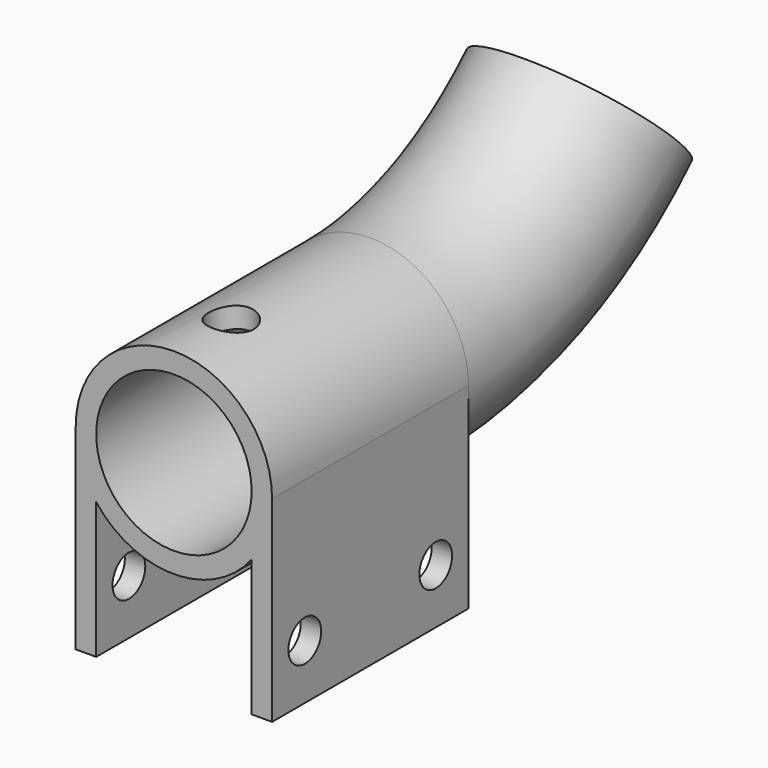
from build123d import *

# Parameters (mm, degrees)
F1_DEPTH = 30
F4_R     = 2.5
F5_DEPTH = 50
F6_R     = 2.75
F7_DEPTH = 25


with BuildPart() as f1:
    # F0 (on Front) → F1 (new body)
    with BuildSketch(Plane.XZ):
        with BuildLine():
            Line((9.5, 0), (12, 0))
            ThreePointArc((12, 0), (0, 12), (-12, 0))
            Line((-12, 0), (-9.5, 0))
            ThreePointArc((-9.5, 0), (0, 9.5), (9.5, 0))
        make_face()
        with BuildLine():
            Line((12, -24), (12, 0))
            ThreePointArc((12, 0), (11.3578166916, -3.8729833462), (9.5, -7.3314391493))
            Line((9.5, -7.3314391493), (9.5, -24))
            Line((9.5, -24), (12, -24))
        make_face()
        with BuildLine():
            ThreePointArc((9.5, -7.3314391493), (11.3578166916, -3.8729833462), (12, 0))
            Line((12, 0), (9.5, 0))
            Line((9.5, 0), (9.5, -7.3314391493))
        make_face()
        with BuildLine():
            Line((-9.5, 0), (-12, 0))
            ThreePointArc((-12, 0), (-11.3578166916, -3.8729833462), (-9.5, -7.3314391493))
            Line((-9.5, -7.3314391493), (-9.5, 0))
        make_face()
        with BuildLine():
            ThreePointArc((-9.5, -7.3314391493), (-11.3578166916, -3.8729833462), (-12, 0))
            Line((-12, 0), (-12, -24))
            Line((-12, -24), (-9.5, -24))
            Line((-9.5, -24), (-9.5, -7.3314391493))
        make_face()
        with BuildLine():
            ThreePointArc((-9.5, -7.3314391493), (0, -12), (9.5, -7.3314391493))
            Line((9.5, -7.3314391493), (9.5, 0))
            ThreePointArc((9.5, 0), (0, -9.5), (-9.5, 0))
            Line((-9.5, 0), (-9.5, -7.3314391493))
        make_face()
    extrude(amount=F1_DEPTH)

    # F3: sweep along a path in F2
    with BuildLine(Plane.YZ) as f3_path:
        ThreePointArc((0, 0), (17.3034739964, 3.4597810832), (31.9462265702, 13.3071205486))
    # F0 (on Front) → F3 (sweep)
    with BuildSketch(Plane.XZ):
        with BuildLine():
            Line((9.5, 0), (12, 0))
            ThreePointArc((12, 0), (0, 12), (-12, 0))
            Line((-12, 0), (-9.5, 0))
            ThreePointArc((-9.5, 0), (0, 9.5), (9.5, 0))
        make_face()
        with BuildLine():
            ThreePointArc((9.5, -7.3314391493), (11.3578166916, -3.8729833462), (12, 0))
            Line((12, 0), (9.5, 0))
            Line((9.5, 0), (9.5, -7.3314391493))
        make_face()
        with BuildLine():
            ThreePointArc((-9.5, -7.3314391493), (0, -12), (9.5, -7.3314391493))
            Line((9.5, -7.3314391493), (9.5, 0))
            ThreePointArc((9.5, 0), (0, -9.5), (-9.5, 0))
            Line((-9.5, 0), (-9.5, -7.3314391493))
        make_face()
        with BuildLine():
            Line((-9.5, 0), (-12, 0))
            ThreePointArc((-12, 0), (-11.3578166916, -3.8729833462), (-9.5, -7.3314391493))
            Line((-9.5, -7.3314391493), (-9.5, 0))
        make_face()
    sweep(path=f3_path.line)

    # F4 (on face) → F5 (cut)
    with BuildSketch(Plane.YZ.offset(12)):
        with Locations((-25, -17.2888711095)):
            Circle(F4_R)
        with Locations((-5, -17.2888711095)):
            Circle(F4_R)
    extrude(amount=-F5_DEPTH, mode=Mode.SUBTRACT)

    # F6 (on Top) → F7 (cut)
    with BuildSketch(Plane.XY):
        with Locations((0, -21.25)):
            Circle(F6_R)
    extrude(amount=F7_DEPTH, mode=Mode.SUBTRACT)


solid = f1.part
